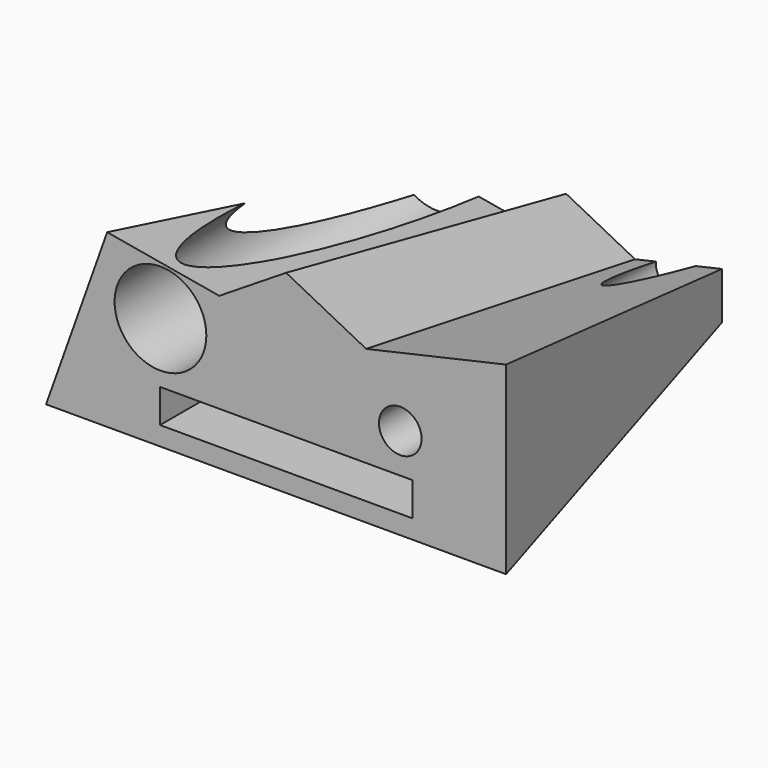
from build123d import *

# Parameters (mm, degrees)
F1_DEPTH = 127
F1_TAPER = -10
F2_R     = 7.8205252783
F3_DEPTH = 127.0010001
F4_R     = 16.8280941537
F5_DEPTH = 127.0010001
F6_W     = 92.6431566477
F6_H     = 12.3323691078
F7_DEPTH = 127.0010001


with BuildPart() as f1:
    # F0 (on Front) → F1 (new body)
    with BuildSketch(Plane.XZ):
        Polygon((-16.393026337, 9.7756581381), (-47.3743416369, 15.1898693293), (-52.7885518968, 0), (61.8122331798, 0), (61.8122331798, 17.2953940928), (29.9285557121, 10.07644739), (4.6622389928, 23.0103954673), align=None)
    extrude(amount=F1_DEPTH, taper=F1_TAPER)

    # F2 (on face) → F3 (cut, through all)
    with BuildSketch(Plane.XZ.offset(127)):
        with Locations((45.4005300999, 11.279605329)):
            Circle(F2_R)
    extrude(amount=-F3_DEPTH, mode=Mode.SUBTRACT)

    # F4 (on face) → F5 (cut, through all)
    with BuildSketch(Plane.XZ.offset(127)):
        with Locations((-42.574852705, 18.9597774297)):
            Circle(F4_R)
    extrude(amount=-F5_DEPTH, mode=Mode.SUBTRACT)

    # F6 (on face) → F7 (cut, through all)
    with BuildSketch(Plane.XZ.offset(127)):
        with Locations((3.5907924175, -9.3244740274)):
            Rectangle(F6_W, F6_H)
    extrude(amount=-F7_DEPTH, mode=Mode.SUBTRACT)


solid = f1.part
